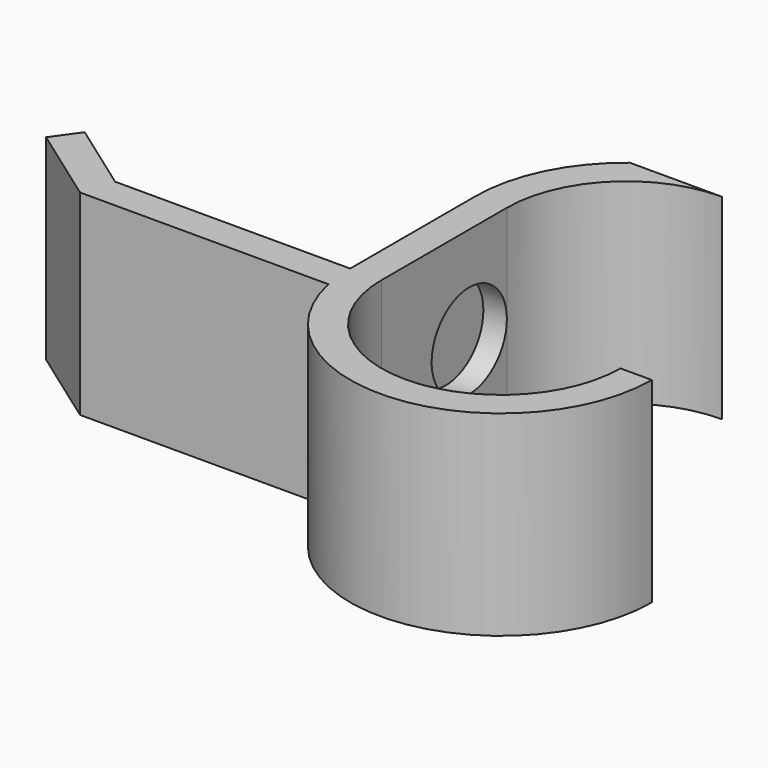
from build123d import *

# Parameters (mm, degrees)
F1_DEPTH = 25
F2_R     = 6
F3_DEPTH = 3


with BuildPart() as f1:
    # F0 (on Top) → F1 (new body)
    with BuildSketch(Plane.XY):
        with BuildLine():
            Line((-35.280006, -4), (-3.57983, -4))
            ThreePointArc((-3.57983, -4), (-3.894669, -2.011004), (-4, 0))
            Line((-4, 0), (-34, 0))
            Line((-34, 0), (-43.05109, 6.453579))
            Line((-43.05109, 6.453579), (-45.373306, 3.196692))
            Line((-45.373306, 3.196692), (-35.280006, -4))
        make_face()
        with BuildLine():
            ThreePointArc((30.5, 0), (15.25, -15.25), (0, 0))
            Line((0, 0), (0, 20))
            ThreePointArc((0, 20), (4.466622, 30.783378), (15.25, 35.25))
            Line((15.25, 35.25), (3.50266, 35.25))
            ThreePointArc((3.50266, 35.25), (-2.022794, 28.497829), (-4, 20))
            Line((-4, 20), (-4, 0))
            ThreePointArc((-4, 0), (-3.894669, -2.011004), (-3.57983, -4))
            ThreePointArc((-3.57983, -4), (17.261004, -19.144669), (34.5, 0))
            Line((34.5, 0), (30.5, 0))
        make_face()
    extrude(amount=F1_DEPTH)

    # F2 (on face) → F3 (cut)
    with BuildSketch(Plane.YZ):
        with Locations((14, 12.5)):
            Circle(F2_R)
    extrude(amount=-F3_DEPTH, mode=Mode.SUBTRACT)


solid = f1.part
